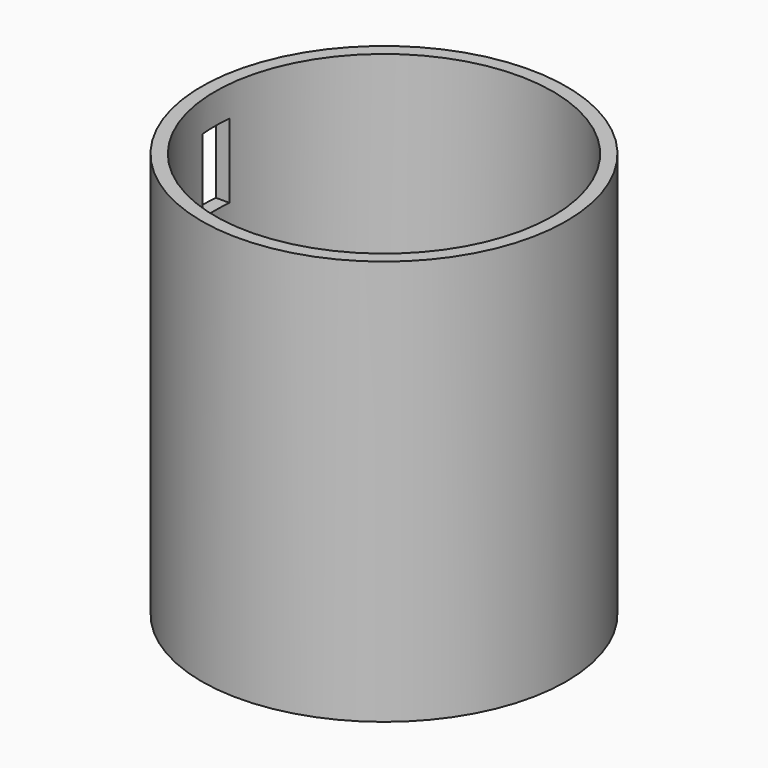
from build123d import *

# Parameters (mm, degrees)
F0_R     = 27
F0_R_2   = 25
F1_DEPTH = 60
F2_W     = 5
F2_H     = 11
F3_DEPTH = 25
F4_DEPTH = 30
F5_DEPTH = 2


with BuildPart() as f1:
    # F0 (on Top) → F1 (new body)
    with BuildSketch(Plane.XY):
        Circle(F0_R)
        Circle(F0_R_2, mode=Mode.SUBTRACT)
    extrude(amount=F1_DEPTH)

    # F2 (on Right) → F3 (cut)
    with BuildSketch(Plane.YZ):
        with Locations((0, 50)):
            Rectangle(F2_W, F2_H)
    extrude(amount=-F3_DEPTH, mode=Mode.SUBTRACT)

    # F2 (on Right) → F4 (cut)
    with BuildSketch(Plane.YZ):
        with Locations((0, 50)):
            Rectangle(F2_W, F2_H)
    extrude(amount=-F4_DEPTH, mode=Mode.SUBTRACT)

    # F0 (on Top) → F5 (join)
    with BuildSketch(Plane.XY):
        Circle(F0_R_2)
    extrude(amount=F5_DEPTH)


solid = f1.part
